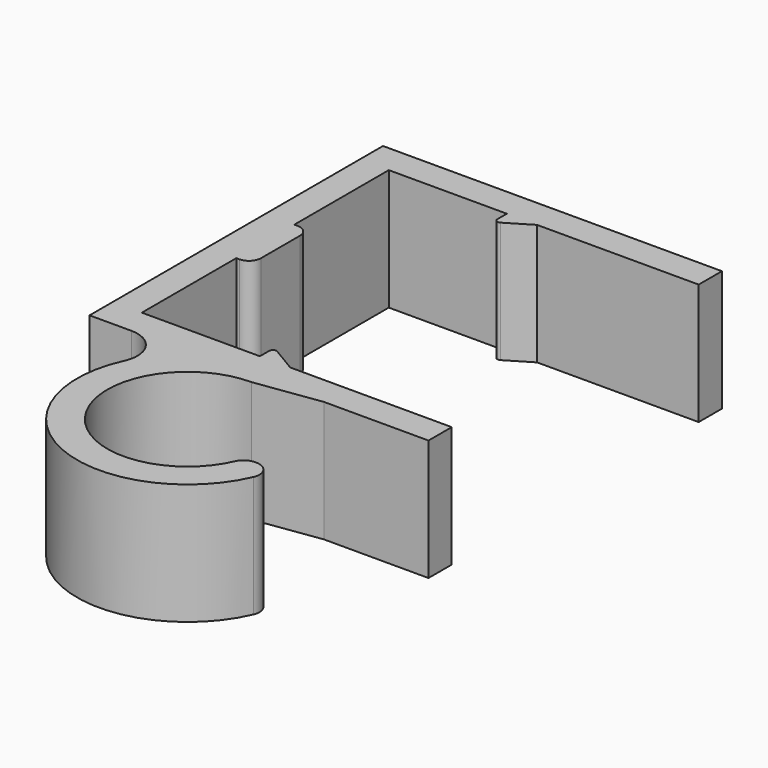
from build123d import *

# Parameters (mm, degrees)
F0_W     = 1.25
F0_H     = 6
F1_DEPTH = 10
F3_DEPTH = 10
F4_R     = 1.2
F5_R     = 2.5
F6_R     = 1
F7_R     = 0.3


with BuildPart() as f1:
    # F0 (on Top) → F1 (new body)
    with BuildSketch(Plane.XY):
        Polygon((0, -2.4), (0, 0), (-28, 0), (-28, -30.3), (0, -30.3), (0, -27.9), (-13.35, -27.9), (-15.85, -27.9), (-25.6, -27.9), (-25.6, -18.15), (-25.6, -12.15), (-25.6, -2.4), (-15.85, -2.4), (-13.35, -2.4), align=None)
        Polygon((-15.85, -3.9), (-13.35, -2.4), (-15.85, -2.4), align=None)
        Polygon((-15.85, -27.9), (-13.35, -27.9), (-15.85, -26.4), align=None)
        with Locations((-24.975, -15.15)):
            Rectangle(F0_W, F0_H)
    extrude(amount=F1_DEPTH)

    # F2 (on face) → F3 (join)
    with BuildSketch(Plane.XY.offset(10)):
        with BuildLine():
            ThreePointArc((-7.6731015896, -39.6488182922), (-19.3342450038, -41.6128057076), (-14, -31.0588802515))
            Line((-14, -31.0588802515), (-8.6386627198, -30.3))
            ThreePointArc((-8.6386627198, -30.3), (-22.5307966917, -40.9228820738), (-5.0890716816, -39.6488182922))
            Line((-5.0890716816, -39.6488182922), (-7.6731015896, -39.6488182922))
        make_face()
    extrude(amount=-F3_DEPTH)

    # F4
    f4_edges = [f1.edges().sort_by_distance(p)[0] for p in [
        (-7.673102, -39.648818, 5),
        (-5.089072, -39.648818, 5),
    ]]
    fillet(f4_edges, radius=F4_R)

    # F5
    f5_edges = [f1.edges().sort_by_distance(p)[0] for p in [
        (-19.361337, -30.3, 5),
    ]]
    fillet(f5_edges, radius=F5_R)

    # F6
    f6_edges = [f1.edges().sort_by_distance(p)[0] for p in [
        (-24.35, -12.15, 5),
        (-24.35, -18.15, 5),
    ]]
    fillet(f6_edges, radius=F6_R)

    # F7
    f7_edges = [f1.edges().sort_by_distance(p)[0] for p in [
        (-15.85, -3.9, 5),
        (-15.85, -26.4, 5),
    ]]
    fillet(f7_edges, radius=F7_R)


solid = f1.part
